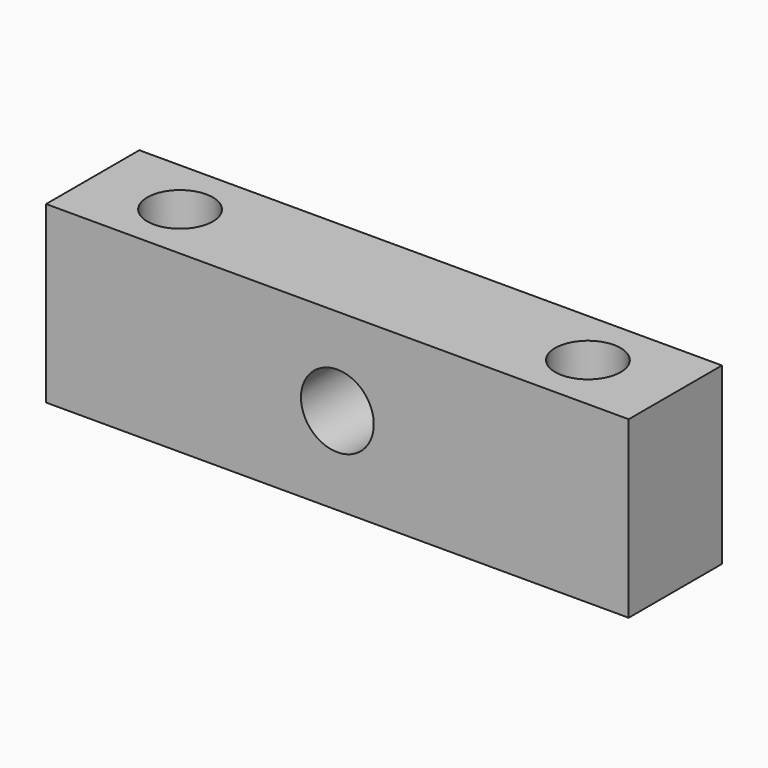
from build123d import *

# Parameters (mm, degrees)
F0_W     = 63.5
F0_H     = 19.05
F1_DEPTH = 6.35
F4_D     = 7.9375
F5_D     = 7.1374


with BuildPart() as f1:
    # F0 (on Front) → F1 (new body, symmetric)
    with BuildSketch(Plane.XZ):
        with Locations((0, 9.525)):
            Rectangle(F0_W, F0_H)
    extrude(amount=F1_DEPTH, both=True)

    # F4 (through all)
    with Locations(Plane.XZ.offset(6.35)):
        with Locations((0, 9.525)):
            Hole(F4_D / 2)

    # F5 (through all)
    with Locations(Plane.XY.offset(19.05)):
        with Locations((-22.225, 0), (22.225, 0)):
            Hole(F5_D / 2)


solid = f1.part
